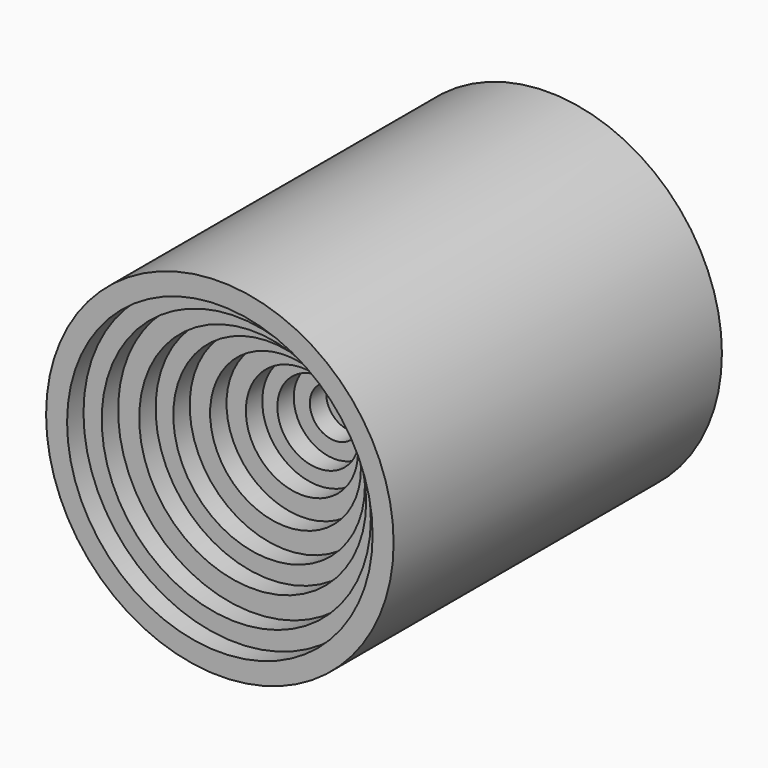
from build123d import *

# Parameters (mm, degrees)
F0_R      = 6.812818
F1_DEPTH  = 12.7
F0_R_2    = 15.4193
F2_DEPTH  = 25.4
F0_R_3    = 25.388469
F3_DEPTH  = 38.1
F0_R_4    = 34.703674
F4_DEPTH  = 50.8
F0_R_5    = 46.672038
F5_DEPTH  = 63.5
F0_R_6    = 59.303122
F6_DEPTH  = 76.2
F0_R_7    = 70.254915
F7_DEPTH  = 88.9
F0_R_8    = 83.288936
F8_DEPTH  = 101.6
F0_R_9    = 94.557674
F9_DEPTH  = 114.3
F0_R_10   = 107.547783
F10_DEPTH = 127


with BuildPart() as f1:
    # F0 (on Front) → F1 (new body, symmetric)
    with BuildSketch(Plane.XZ):
        Circle(F0_R)
    extrude(amount=F1_DEPTH, both=True)


with BuildPart() as f2:
    # F0 (on Front) → F2 (new body, symmetric)
    with BuildSketch(Plane.XZ):
        Circle(F0_R_2)
        Circle(F0_R, mode=Mode.SUBTRACT)
    extrude(amount=F2_DEPTH, both=True)


with BuildPart() as f3:
    # F0 (on Front) → F3 (new body, symmetric)
    with BuildSketch(Plane.XZ):
        Circle(F0_R_3)
        Circle(F0_R_2, mode=Mode.SUBTRACT)
    extrude(amount=F3_DEPTH, both=True)


with BuildPart() as f4:
    # F0 (on Front) → F4 (new body, symmetric)
    with BuildSketch(Plane.XZ):
        Circle(F0_R_4)
        Circle(F0_R_3, mode=Mode.SUBTRACT)
    extrude(amount=F4_DEPTH, both=True)


with BuildPart() as f5:
    # F0 (on Front) → F5 (new body, symmetric)
    with BuildSketch(Plane.XZ):
        Circle(F0_R_5)
        Circle(F0_R_4, mode=Mode.SUBTRACT)
    extrude(amount=F5_DEPTH, both=True)


with BuildPart() as f6:
    # F0 (on Front) → F6 (new body, symmetric)
    with BuildSketch(Plane.XZ):
        Circle(F0_R_6)
        Circle(F0_R_5, mode=Mode.SUBTRACT)
    extrude(amount=F6_DEPTH, both=True)


with BuildPart() as f7:
    # F0 (on Front) → F7 (new body, symmetric)
    with BuildSketch(Plane.XZ):
        Circle(F0_R_7)
        Circle(F0_R_6, mode=Mode.SUBTRACT)
    extrude(amount=F7_DEPTH, both=True)


with BuildPart() as f8:
    # F0 (on Front) → F8 (new body, symmetric)
    with BuildSketch(Plane.XZ):
        Circle(F0_R_8)
        Circle(F0_R_7, mode=Mode.SUBTRACT)
    extrude(amount=F8_DEPTH, both=True)


with BuildPart() as f9:
    # F0 (on Front) → F9 (new body, symmetric)
    with BuildSketch(Plane.XZ):
        Circle(F0_R_9)
        Circle(F0_R_8, mode=Mode.SUBTRACT)
    extrude(amount=F9_DEPTH, both=True)


with BuildPart() as f10:
    # F0 (on Front) → F10 (new body, symmetric)
    with BuildSketch(Plane.XZ):
        Circle(F0_R_10)
        Circle(F0_R_9, mode=Mode.SUBTRACT)
    extrude(amount=F10_DEPTH, both=True)


solid = Compound([f1.part, f2.part, f3.part, f4.part, f5.part, f6.part, f7.part, f8.part, f9.part, f10.part])
